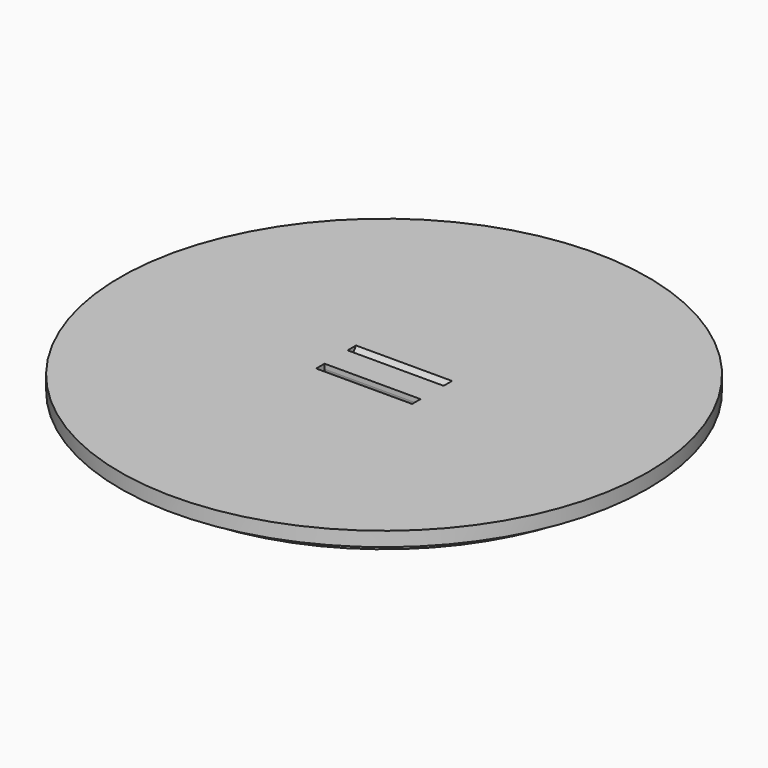
from build123d import *

# Parameters (mm, degrees)
F0_R     = 12.7
F1_DEPTH = 1.524
F2_R     = 13.97
F3_DEPTH = 0.762
F4_W     = 5.08
F4_H     = 1.524
F6_W     = 5.08000508
F6_H     = 1.5265774739
F7_DEPTH = 0.508
F8_R     = 0.254


with BuildPart() as f1:
    # F0 (on Top) → F1 (new body)
    with BuildSketch(Plane.XY):
        Circle(F0_R)
    extrude(amount=-F1_DEPTH)

    # F2 (on Top) → F3 (join)
    with BuildSketch(Plane.XY):
        Circle(F2_R)
    extrude(amount=-F3_DEPTH)

    # F4 (on Front) → F5 (revolve, cut)
    with BuildSketch(Plane.XZ):
        Rectangle(F4_W, F4_H)
    revolve(axis=Axis((0, 0, 0.762), (-1, 0, 0)), mode=Mode.SUBTRACT)

    # F6 (on Top) → F7 (join)
    with BuildSketch(Plane.XY):
        Rectangle(F6_W, F6_H)
    extrude(amount=-F7_DEPTH)

    # F8
    f8_edges = [f1.edges().sort_by_distance(p)[0] for p in [
        (0, 0.763289, -0.508),
        (0, -0.763289, -0.508),
    ]]
    fillet(f8_edges, radius=F8_R)


solid = f1.part
